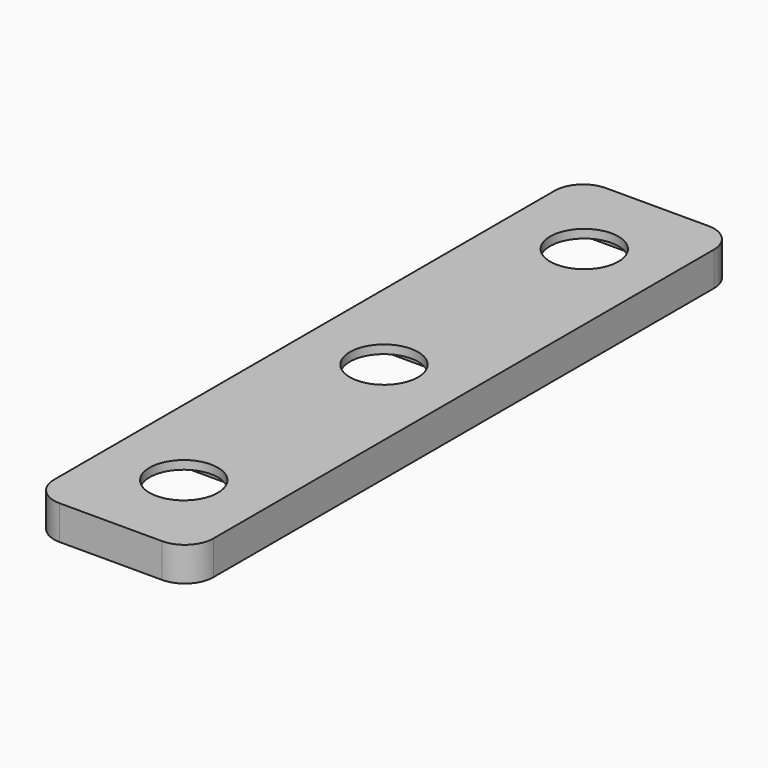
from build123d import *

# Parameters (mm, degrees)
SKETCH_W     = 12
SKETCH_H     = 12
PAD_DEPTH    = 3
SKETCH001_W  = 12.427667
SKETCH001_H  = 57.473638
PAD001_DEPTH = 0.75
SKETCH002_R  = 3
HOLE_DEPTH   = 25


with BuildPart() as part:
    # Sketch → Pad (new body)
    with BuildSketch(Plane.XY):
        with BuildLine():
            Line((-11.5, -60), (-2.5, -60))
            ThreePointArc((-2.5, -60), (-0.732233, -59.267767), (0, -57.5))
            Line((0, -57.5), (0, -2.5))
            ThreePointArc((0, -2.5), (-0.732233, -0.732233), (-2.5, 0))
            Line((-2.5, 0), (-11.5, 0))
            ThreePointArc((-11.5, 0), (-13.267767, -0.732233), (-14, -2.5))
            Line((-14, -2.5), (-14, -57.5))
            ThreePointArc((-14, -57.5), (-13.267767, -59.267767), (-11.5, -60))
        make_face()
        with Locations((-7, -52)):
            Rectangle(SKETCH_W, SKETCH_H, mode=Mode.SUBTRACT)
        with Locations((-7, -30)):
            Rectangle(SKETCH_W, SKETCH_H, mode=Mode.SUBTRACT)
        with Locations((-7, -8)):
            Rectangle(SKETCH_W, SKETCH_H, mode=Mode.SUBTRACT)
    extrude(amount=PAD_DEPTH)

    # Sketch001 (on Face22 of Pad) → Pad001 (join)
    with BuildSketch(Plane.XY.offset(3)):
        with Locations((-6.943834, -29.736819)):
            Rectangle(SKETCH001_W, SKETCH001_H)
    extrude(amount=-PAD001_DEPTH)

    # Sketch002 (on Face23 of Pad001) → Hole (cut)
    with BuildSketch(Plane(origin=(0, 0, 2.25), x_dir=(1, 0, 0), z_dir=(0, 0, -1))):
        with Locations((-7, 30)):
            Circle(SKETCH002_R)
        with Locations((-7, 52)):
            Circle(SKETCH002_R)
        with Locations((-7, 8)):
            Circle(SKETCH002_R)
    extrude(amount=-HOLE_DEPTH, mode=Mode.SUBTRACT)


solid = part.part
